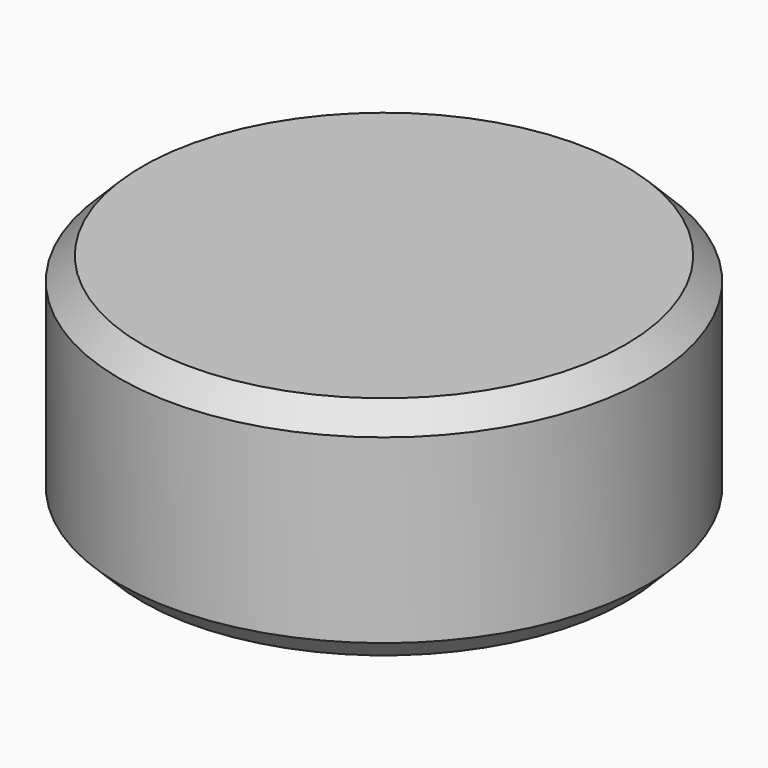
from build123d import *

# Parameters (mm, degrees)
F0_R      = 1.5
F1_DEPTH  = 15
F0_R_2    = 17.5
F2_SIZE   = 1.5
F2_2_SIZE = 1.5


with BuildPart() as f1:
    # F0 (on Top) → F1 (new body)
    with BuildSketch(Plane.XY):
        with Locations((-49.0162223577, 3.6474848166)):
            Circle(F0_R)
    extrude(amount=F1_DEPTH)

    # F2
    f2_edges = [f1.edges().sort_by_distance(p)[0] for p in [
        (-50.516222, 3.647485, 15),
    ]]
    chamfer(f2_edges, length=F2_SIZE)


with BuildPart() as f1b:
    # F0 (on Top) → F1, piece 2 (new body)
    with BuildSketch(Plane.XY):
        Circle(F0_R_2)
    extrude(amount=F1_DEPTH)

    # F2#2
    f2_2_edges = [f1b.edges().sort_by_distance(p)[0] for p in [
        (-17.5, 0, 15),
        (17.5, 0, 7.5),
        (-17.5, 0, 0),
    ]]
    chamfer(f2_2_edges, length=F2_2_SIZE)


solid = f1b.part
